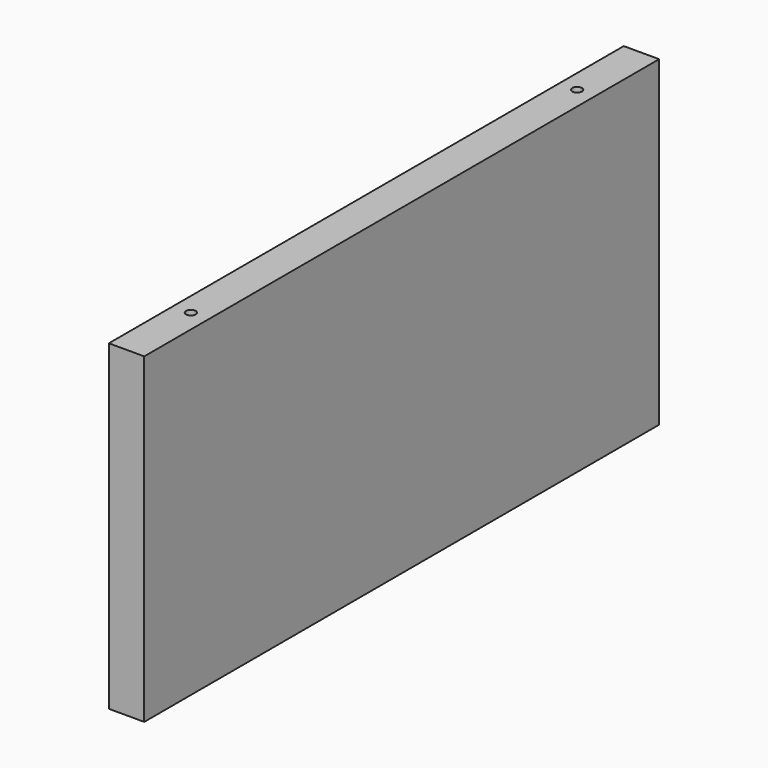
from build123d import *

# Parameters (mm, degrees)
F0_W     = 400
F0_H     = 200
F1_DEPTH = 22
F3_D     = 6
F3_DEPTH = 15
F3_TIP   = 1.8025818571


with BuildPart() as f1:
    # F0 (on Right) → F1 (new body)
    with BuildSketch(Plane.YZ):
        with Locations((200, 100)):
            Rectangle(F0_W, F0_H)
    extrude(amount=F1_DEPTH)

    # F3
    with Locations(Plane.XY.offset(200)):
        with Locations((11, 350), (11, 50)):
            Hole(F3_D / 2, depth=F3_DEPTH)
            with Locations((0, 0, -(F3_DEPTH + F3_TIP / 2))):  # 118° drill point
                Cone(0, F3_D / 2, F3_TIP, mode=Mode.SUBTRACT)


solid = f1.part
